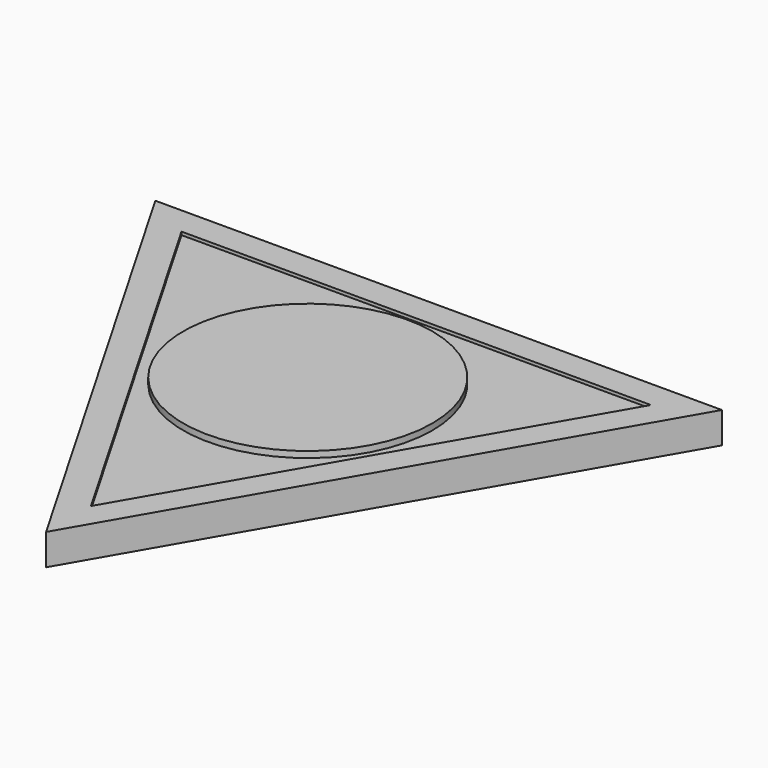
from build123d import *

# Parameters (mm, degrees)
F2_DEPTH = 5
F0_R     = 20.5
F3_DEPTH = 5
F4_T     = -4.5
F5_R     = 20
F6_DEPTH = 1


with BuildPart() as f2:
    # F1 (on Top) → F2 (new body)
    with BuildSketch(Plane.XY):
        Polygon((45.466336, 26.250001), (-45.466336, 26.250001), (0, -52.500002), align=None)
    extrude(amount=F2_DEPTH)

    # F0 (on Top) → F3 (join)
    with BuildSketch(Plane.XY):
        Circle(F0_R)
    extrude(amount=F3_DEPTH)

    # F4
    f4_openings = [f2.faces().sort_by_distance(p)[0] for p in [
        (0, 0, 5),
    ]]
    offset(amount=F4_T, openings=f4_openings)

    # F5 (on face) → F6 (join)
    with BuildSketch(Plane.XY.offset(4.5)):
        Circle(F5_R)
    extrude(amount=F6_DEPTH)


solid = f2.part
